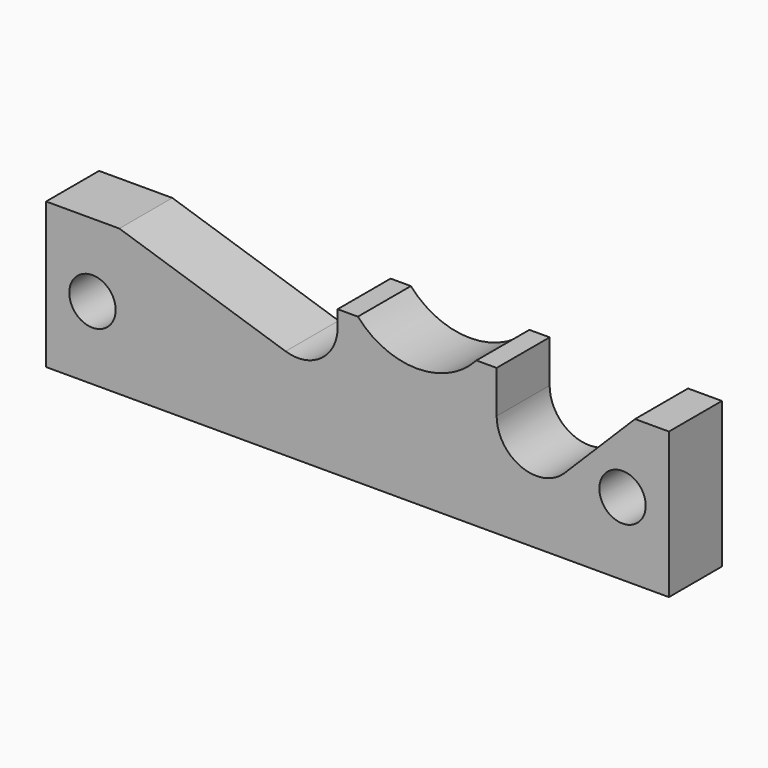
from build123d import *

# Parameters (mm, degrees)
CYLINDER035_R          = 1.75
CYLINDER035_DEPTH      = 44
CYLINDER035_ROLL_ANGLE = 90
CYLINDER034_R          = 1.75
CYLINDER034_DEPTH      = 44
CYLINDER034_ROLL_ANGLE = 90
CYLINDER037_R          = 6
CYLINDER037_DEPTH      = 34
CYLINDER037_ROLL_ANGLE = 90
CYLINDER024_R          = 1.75
CYLINDER024_DEPTH      = 44
CYLINDER024_ROLL_ANGLE = 90
BOX054_W               = 37
BOX054_H               = 5
BOX054_DEPTH           = 14
BOX054_PITCH_ANGLE     = 18
BOX055_W               = 22
BOX055_H               = 5
BOX055_DEPTH           = 11
BOX055_PITCH_ANGLE     = -45
BOX056_W               = 12
BOX056_H               = 5
BOX056_DEPTH           = 31
CYLINDER025_R          = 1.75
CYLINDER025_DEPTH      = 44
CYLINDER025_ROLL_ANGLE = 90
BOX053_W               = 47
BOX053_H               = 5
BOX053_DEPTH           = 27
FILLET_R               = 3
BOX057_W               = 47
BOX057_H               = 5
BOX057_DEPTH           = 11


with BuildPart() as cylinder_for_hole_4_motherboard002:
    # Cylinder035 → Cylinder035 (new body)
    with BuildSketch(Plane.XY):
        Circle(CYLINDER035_R)
    extrude(amount=CYLINDER035_DEPTH)


with BuildPart() as cylinder_for_hole_4_motherboard002_1:
    # Cylinder035 roll: moved
    add(cylinder_for_hole_4_motherboard002.part.rotate(Axis((0, 0, 0), (1, 0, 0)), CYLINDER035_ROLL_ANGLE))


with BuildPart() as cylinder_for_hole_4_motherboard002_2:
    # Cylinder035 placement: moved
    add(cylinder_for_hole_4_motherboard002_1.part.moved(Location((20, 6, -13.5))))


with BuildPart() as cylinder_for_hole_3_motherboard002:
    # Cylinder034 → Cylinder034 (new body)
    with BuildSketch(Plane.XY):
        Circle(CYLINDER034_R)
    extrude(amount=CYLINDER034_DEPTH)


with BuildPart() as cylinder_for_hole_3_motherboard002_1:
    # Cylinder034 roll: moved
    add(cylinder_for_hole_3_motherboard002.part.rotate(Axis((0, 0, 0), (1, 0, 0)), CYLINDER034_ROLL_ANGLE))


with BuildPart() as cylinder_for_hole_3_motherboard002_2:
    # Cylinder034 placement: moved
    add(cylinder_for_hole_3_motherboard002_1.part.moved(Location((-20, 6, -13.5))))


with BuildPart() as jhead_hole:
    # Cylinder037 → Cylinder037 (new body)
    with BuildSketch(Plane.XY):
        Circle(CYLINDER037_R)
    extrude(amount=CYLINDER037_DEPTH)


with BuildPart() as jhead_hole_1:
    # Cylinder037 roll: moved
    add(jhead_hole.part.rotate(Axis((0, 0, 0), (1, 0, 0)), CYLINDER037_ROLL_ANGLE))


with BuildPart() as jhead_hole_2:
    # Cylinder037 placement: moved
    add(jhead_hole_1.part.moved(Location((4.5, 0, -4))))


with BuildPart() as jhead_lock_plate_holes:
    # Fusion016 base: copy of jhead hole
    add(jhead_hole_2.part)

    # Fusion016: union cylinder for hole 4 - Motherboard002, cylinder for hole 3 - Motherboard002
    add(cylinder_for_hole_4_motherboard002_2.part)
    add(cylinder_for_hole_3_motherboard002_2.part)


with BuildPart() as cylinder_for_hole_9_groovemount_l001:
    # Cylinder024 → Cylinder024 (new body)
    with BuildSketch(Plane.XY):
        Circle(CYLINDER024_R)
    extrude(amount=CYLINDER024_DEPTH)


with BuildPart() as cylinder_for_hole_9_groovemount_l001_1:
    # Cylinder024 roll: moved
    add(cylinder_for_hole_9_groovemount_l001.part.rotate(Axis((0, 0, 0), (1, 0, 0)), CYLINDER024_ROLL_ANGLE))


with BuildPart() as cylinder_for_hole_9_groovemount_l001_2:
    # Cylinder024 placement: moved
    add(cylinder_for_hole_9_groovemount_l001_1.part.moved(Location((-20, 6, -2.5))))


with BuildPart() as jhead_retention_plate_chamfer_l:
    # Box054 → Box054 (new body)
    with BuildSketch(Plane.XY):
        with Locations((18.5, 2.5)):
            Rectangle(BOX054_W, BOX054_H)
    extrude(amount=BOX054_DEPTH)


with BuildPart() as jhead_retention_plate_chamfer_l_1:
    # Box054 pitch: moved
    add(jhead_retention_plate_chamfer_l.part.rotate(Axis((0, 0, 0), (0, 1, 0)), BOX054_PITCH_ANGLE))


with BuildPart() as jhead_retention_plate_chamfer_l_2:
    # Box054 placement: moved
    add(jhead_retention_plate_chamfer_l_1.part.moved(Location((-32.5, -24, -17))))


with BuildPart() as jhead_retention_plate_chamfer_r:
    # Box055 → Box055 (new body)
    with BuildSketch(Plane.XY):
        with Locations((11, 2.5)):
            Rectangle(BOX055_W, BOX055_H)
    extrude(amount=BOX055_DEPTH)


with BuildPart() as jhead_retention_plate_chamfer_r_1:
    # Box055 pitch: moved
    add(jhead_retention_plate_chamfer_r.part.rotate(Axis((0, 0, 0), (0, 1, 0)), BOX055_PITCH_ANGLE))


with BuildPart() as jhead_retention_plate_chamfer_r_2:
    # Box055 placement: moved
    add(jhead_retention_plate_chamfer_r_1.part.moved(Location((16.5, -24, -27))))


with BuildPart() as jhead_retention_plate_slide_in_hole:
    # Box056 → Box056 (new body)
    with BuildSketch(Plane(origin=(-1.5, -24, -35), x_dir=(1, 0, 0), z_dir=(0, 0, 1))):
        with Locations((6, 2.5)):
            Rectangle(BOX056_W, BOX056_H)
    extrude(amount=BOX056_DEPTH)


with BuildPart() as jhead_retention_plate_holes:
    # Cylinder025 → Cylinder025 (new body)
    with BuildSketch(Plane.XY):
        Circle(CYLINDER025_R)
    extrude(amount=CYLINDER025_DEPTH)


with BuildPart() as jhead_retention_plate_holes_1:
    # Cylinder025 roll: moved
    add(jhead_retention_plate_holes.part.rotate(Axis((0, 0, 0), (1, 0, 0)), CYLINDER025_ROLL_ANGLE))


with BuildPart() as jhead_retention_plate_holes_2:
    # Cylinder025 placement: moved
    add(jhead_retention_plate_holes_1.part.moved(Location((20, 6, -2.5))))

    # Fusion015: union cylinder for hole 9 - Groovemount L001, jhead hole, jhead retention plate chamfer L, jhead retention plate chamfer R, jhead retention plate slide in hole
    add(cylinder_for_hole_9_groovemount_l001_2.part)
    add(jhead_hole_2.part)
    add(jhead_retention_plate_chamfer_l_2.part)
    add(jhead_retention_plate_chamfer_r_2.part)
    add(jhead_retention_plate_slide_in_hole.part)


with BuildPart() as fillet_body:
    # Box053 → Box053 (new body)
    with BuildSketch(Plane(origin=(-23.5, -24, -19), x_dir=(1, 0, 0), z_dir=(0, 0, 1))):
        with Locations((23.5, 2.5)):
            Rectangle(BOX053_W, BOX053_H)
    extrude(amount=BOX053_DEPTH)

    # Cut009: cut jhead retention plate holes
    add(jhead_retention_plate_holes_2.part, mode=Mode.SUBTRACT)

    # Fillet
    fillet_edges = [fillet_body.edges().sort_by_distance(p)[0] for p in [
        (-23.5, -21.5, 8),
        (-23.5, -21.5, -5.203806),
        (23.5, -21.5, 8),
        (-1.5, -21.5, -12.352039),
        (10.5, -21.5, -17.443651),
        (23.5, -21.5, -4.443651),
    ]]
    fillet(fillet_edges, radius=FILLET_R)


with BuildPart() as cut011:
    # Box057 → Box057 (new body)
    with BuildSketch(Plane(origin=(-23.5, -24, -18), x_dir=(1, 0, 0), z_dir=(0, 0, 1))):
        with Locations((23.5, 2.5)):
            Rectangle(BOX057_W, BOX057_H)
    extrude(amount=BOX057_DEPTH)

    # Cut010: cut Fillet body
    add(fillet_body.part, mode=Mode.SUBTRACT)


with BuildPart() as cut011_1:
    # Cut010 placement: moved
    add(cut011.part.moved(Location((0, 0, -1))))

    # Cut011: cut jhead lock plate holes
    add(jhead_lock_plate_holes.part, mode=Mode.SUBTRACT)


solid = cut011_1.part
